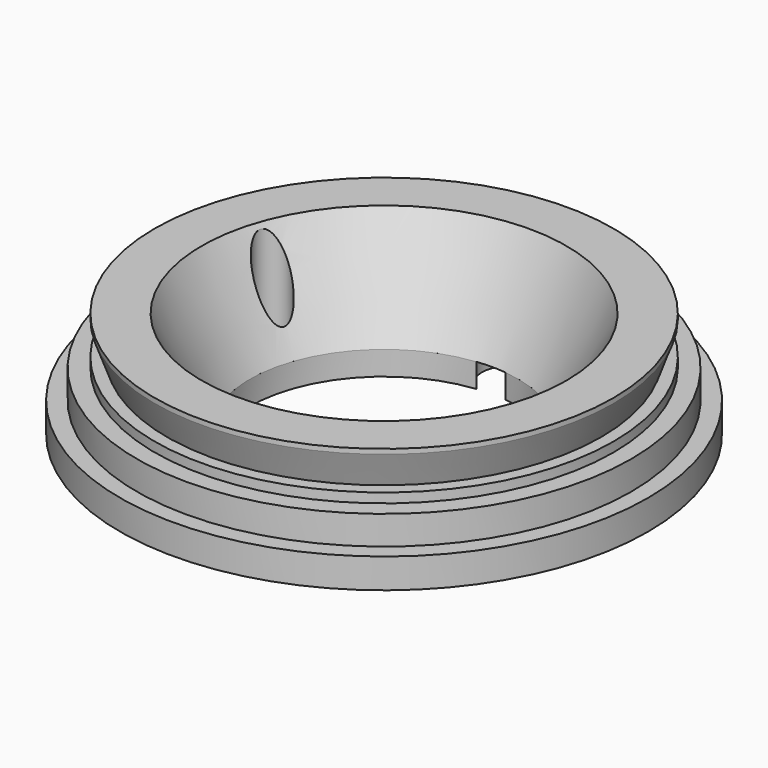
from build123d import *

# Parameters (mm, degrees)
F2_R     = 0.9
F3_DEPTH = 2.5
F4_R     = 3
F5_DEPTH = 2.5
F6_R     = 1.75
F7_DEPTH = 10.0710001


with BuildPart() as f1:
    # F0 (on Front) → F1 (revolve)
    with BuildSketch(Plane.XZ):
        Polygon((14, -35.9), (23.5, -35.9), (23.5, -33.9), (27.5, -33.9), (27.5, -30.8), (25.75, -30.8), (25.75, -27.8), (23.9, -27.8), (23.9, -26.8), (22.6261041801, -26.8), (23.9, -23.3), (23.9, -22.8), (19, -22.8), (14, -33.4), align=None)
    revolve(axis=Axis((0, 0, -3.8875962891), (0, 0, -1)))

    # F2 (on face) → F3 (cut)
    with BuildSketch(Plane(origin=(0, 0, -35.9), x_dir=(1, 0, 0), z_dir=(0, 0, -1))):
        with Locations((3.2437529214, 16.6876621186)):
            Circle(F2_R)
        with Locations((16.0738157852, -5.5346586258)):
            Circle(F2_R)
        with Locations((-16.0738157852, -5.5346586258)):
            Circle(F2_R)
    extrude(amount=-F3_DEPTH, mode=Mode.SUBTRACT)

    # F4 (on face) → F5 (cut)
    with BuildSketch(Plane(origin=(0, 0, -35.9), x_dir=(1, 0, 0), z_dir=(0, 0, -1))):
        with BuildLine():
            Line((22, -2.0093531297), (22, 2.0093531297))
            ThreePointArc((22, 2.0093531297), (17.75, 0), (22, -2.0093531297))
        make_face()
        with Locations((-3.6643229153, 17.6230740103)):
            Circle(F4_R)
        with Locations((0, -16.5)):
            Circle(F4_R)
    extrude(amount=-F5_DEPTH, mode=Mode.SUBTRACT)

    # F6 (on face) → F7 (cut, through all)
    with BuildSketch(Plane(origin=(0, 0, -33.4), x_dir=(1, 0, 0), z_dir=(0, 0, -1))):
        with Locations((3.2437529214, 16.6876621186)):
            Circle(F6_R)
        with Locations((-16.0738157852, -5.5346586258)):
            Circle(F6_R)
        with Locations((16.0738157852, -5.5346586258)):
            Circle(F6_R)
    extrude(amount=-F7_DEPTH, mode=Mode.SUBTRACT)


solid = f1.part
